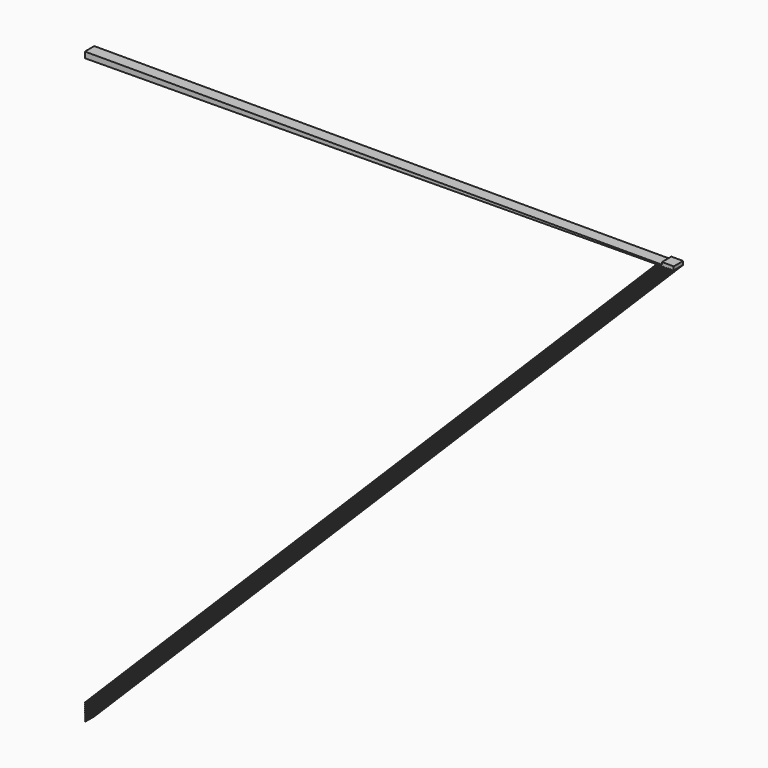
from build123d import *

# Parameters (mm, degrees)
F1_DEPTH = 5
F3_W     = 10
F3_H     = 10
F4_DEPTH = 2
F5_R     = 0.5


with BuildPart() as f1:
    # F0 (on Front) → F1 (new body, symmetric)
    with BuildSketch(Plane.XZ):
        Polygon((249.854166, 317.379943), (249.854166, 318.379943), (-250.145834, 318.379943), (-250.145834, 313.379943), (235.354566, 317.263947), (236.354534, 317.271946), (236.854518, 317.275946), (237.854486, 317.283946), (238.35447, 317.287946), (239.354438, 317.295946), (239.854422, 317.299945), (240.85439, 317.307945), (241.354374, 317.311945), (242.354342, 317.319945), (242.854326, 317.323945), (243.854326, 317.331945), (244.354326, 317.335945), (245.354294, 317.343944), (245.854278, 317.347944), (246.854246, 317.355944), (247.354246, 317.359944), (248.354214, 317.367944), (248.854198, 317.371944), align=None)
        Polygon((-250.145461, -181.227054), (248.354214, 317.367944), (247.354246, 317.359944), (-250.145461, -180.227054), align=None)
        Polygon((-250.145461, -182.727054), (249.854166, 317.379943), (248.854198, 317.371944), (-250.145461, -181.727054), align=None)
        Polygon((-250.145461, -178.227054), (245.354294, 317.343944), (244.354326, 317.335945), (-250.145461, -177.227054), align=None)
        Polygon((-250.145461, -179.727054), (246.854246, 317.355944), (245.854278, 317.347944), (-250.145461, -178.727054), align=None)
        Polygon((240.85439, 317.307945), (239.854422, 317.299945), (-250.145461, -172.727054), (-250.145461, -173.727054), align=None)
        Polygon((-250.145461, -175.227054), (242.354342, 317.319945), (241.354374, 317.311945), (-250.145461, -174.227054), align=None)
        Polygon((-250.145461, -176.727054), (243.854326, 317.331945), (242.854326, 317.323945), (-250.145461, -175.727054), align=None)
        Polygon((239.354438, 317.295946), (238.35447, 317.287946), (-250.145461, -171.227054), (-250.145461, -172.227054), align=None)
        Polygon((237.854486, 317.283946), (236.854518, 317.275946), (-250.145461, -169.727054), (-250.145461, -170.727054), align=None)
        Polygon((236.354534, 317.271946), (235.354566, 317.263947), (-250.148691, -168.227064), (-250.148691, -169.227064), align=None)
    extrude(amount=F1_DEPTH, both=True)

    # F3 (on face) → F4 (join)
    with BuildSketch(Plane.XY.offset(318.379943)):
        with Locations((244.854166, 0)):
            Rectangle(F3_W, F3_H)
    extrude(amount=F4_DEPTH)

    # F5
    f5_edges = [f1.edges().sort_by_distance(p)[0] for p in [
        (239.854166, 0, 318.379943),
        (249.854166, 0, 317.379943),
    ]]
    fillet(f5_edges, radius=F5_R)


solid = f1.part
